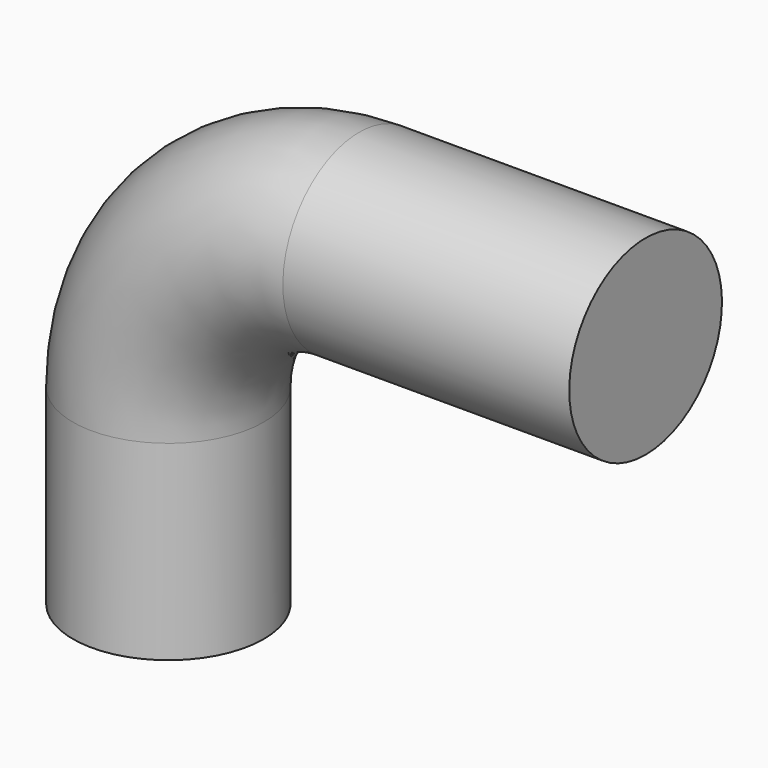
from build123d import *

# Parameters (mm, degrees)
F1_R = 10


with BuildPart() as f2:
    # F2: sweep along a path in F0
    with BuildLine(Plane.XZ) as f2_path:
        Line((0, 0), (0, 20))
        ThreePointArc((0, 20), (5.857864, 34.142136), (20, 40))
        Line((20, 40), (50, 40))
    # F1 (on Top) → F2 (sweep)
    with BuildSketch(Plane.XY):
        Circle(F1_R)
    sweep(path=f2_path.line)


with BuildPart() as f3_1:
    # F3: copy of F2
    add(f2.part)


solid = Compound([f2.part, f3_1.part])
